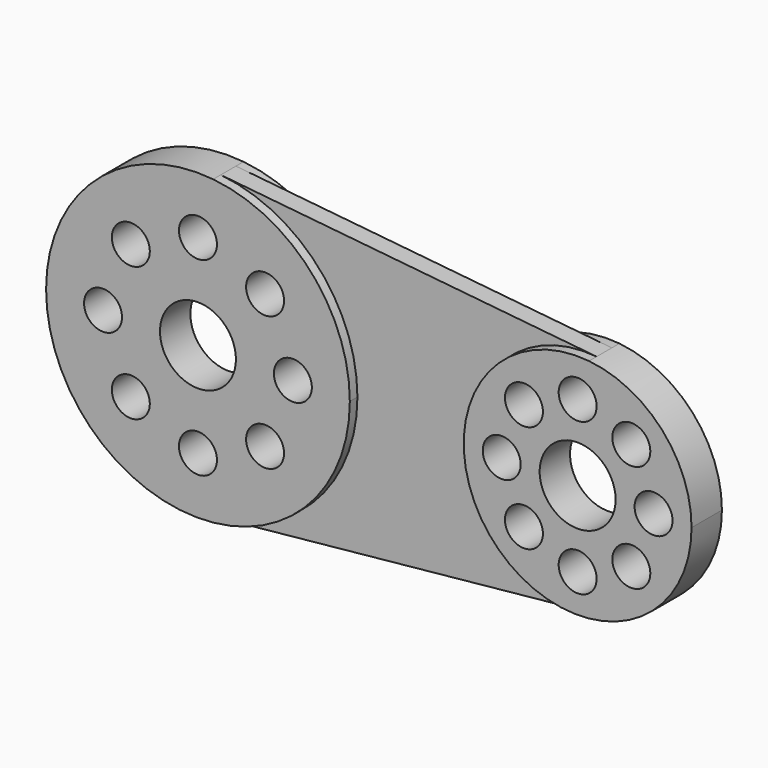
from build123d import *

# Parameters (mm, degrees)
F0_R     = 6.35
F0_R_2   = 12.7
F1_DEPTH = 6.35
F2_DEPTH = 3.175


with BuildPart() as f1:
    # F0 (on Front) → F1 (new body, symmetric)
    with BuildSketch(Plane.XZ):
        with BuildLine():
            ThreePointArc((5.08, -50.545362), (37.674288, -34.077676), (50.8, 0))
            ThreePointArc((50.8, 0), (37.674288, 34.077676), (5.08, 50.545362))
            ThreePointArc((5.08, 50.545362), (-50.8, 0), (5.08, -50.545362))
        make_face()
        with Locations((0, -31.75)):
            Circle(F0_R, mode=Mode.SUBTRACT)
        with Locations((-22.45064, -22.45064)):
            Circle(F0_R, mode=Mode.SUBTRACT)
        with Locations((-31.75, 0)):
            Circle(F0_R, mode=Mode.SUBTRACT)
        Circle(F0_R_2, mode=Mode.SUBTRACT)
        with Locations((22.45064, -22.45064)):
            Circle(F0_R, mode=Mode.SUBTRACT)
        with Locations((31.75, 0)):
            Circle(F0_R, mode=Mode.SUBTRACT)
        with Locations((-22.45064, 22.45064)):
            Circle(F0_R, mode=Mode.SUBTRACT)
        with Locations((22.45064, 22.45064)):
            Circle(F0_R, mode=Mode.SUBTRACT)
        with Locations((0, 31.75)):
            Circle(F0_R, mode=Mode.SUBTRACT)
        with BuildLine():
            ThreePointArc((165.1, 0), (155.255716, 25.558257), (130.81, 37.909021))
            ThreePointArc((130.81, 37.909021), (88.9, 0), (130.81, -37.909021))
            ThreePointArc((130.81, -37.909021), (155.255716, -25.558257), (165.1, 0))
        make_face()
        with Locations((127, -25.4)):
            Circle(F0_R, mode=Mode.SUBTRACT)
        with Locations((109.039488, -17.960512)):
            Circle(F0_R, mode=Mode.SUBTRACT)
        with Locations((101.6, 0)):
            Circle(F0_R, mode=Mode.SUBTRACT)
        with Locations((144.960512, -17.960512)):
            Circle(F0_R, mode=Mode.SUBTRACT)
        with Locations((127, 0)):
            Circle(F0_R_2, mode=Mode.SUBTRACT)
        with Locations((152.4, 0)):
            Circle(F0_R, mode=Mode.SUBTRACT)
        with Locations((109.039488, 17.960512)):
            Circle(F0_R, mode=Mode.SUBTRACT)
        with Locations((127, 25.4)):
            Circle(F0_R, mode=Mode.SUBTRACT)
        with Locations((144.960512, 17.960512)):
            Circle(F0_R, mode=Mode.SUBTRACT)
    extrude(amount=F1_DEPTH, both=True)


with BuildPart() as f2:
    # F0 (on Front) → F2 (new body, symmetric)
    with BuildSketch(Plane.XZ):
        with BuildLine():
            ThreePointArc((5.08, 50.545362), (37.674288, 34.077676), (50.8, 0))
            ThreePointArc((50.8, 0), (37.674288, -34.077676), (5.08, -50.545362))
            Line((5.08, -50.545362), (130.81, -37.909021))
            ThreePointArc((130.81, -37.909021), (88.9, 0), (130.81, 37.909021))
            Line((130.81, 37.909021), (5.08, 50.545362))
        make_face()
    extrude(amount=F2_DEPTH, both=True)


solid = Compound([f1.part, f2.part])
